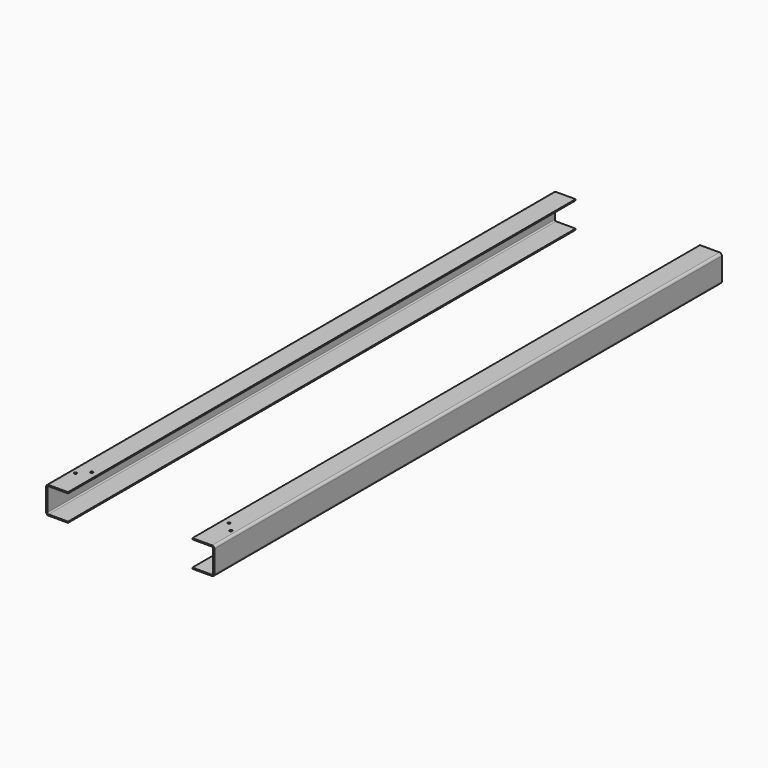
from build123d import *

# Parameters (mm, degrees)
F1_DEPTH = 2168
F4_DEPTH = 4


with BuildPart() as f1:
    # F0 (on Front) → F1 (new body)
    with BuildSketch(Plane.XZ):
        with BuildLine():
            Line((-37.5, -42.25), (-37.5, -46.25))
            Line((-37.5, -46.25), (29.5, -46.25))
            ThreePointArc((29.5, -46.25), (35.1568542495, -43.9068542495), (37.5, -38.25))
            Line((37.5, -38.25), (37.5, 38.25))
            ThreePointArc((37.5, 38.25), (35.1568542495, 43.9068542495), (29.5, 46.25))
            Line((29.5, 46.25), (-37.5, 46.25))
            Line((-37.5, 46.25), (-37.5, 42.25))
            Line((-37.5, 42.25), (29.5, 42.25))
            ThreePointArc((29.5, 42.25), (32.3284271247, 41.0784271247), (33.5, 38.25))
            Line((33.5, 38.25), (33.5, -38.25))
            ThreePointArc((33.5, -38.25), (32.3284271247, -41.0784271247), (29.5, -42.25))
            Line((29.5, -42.25), (-37.5, -42.25))
        make_face()
    extrude(amount=-F1_DEPTH)

    # F3 (on offset) → F4 (cut, through all)
    with BuildSketch(Plane.XY.offset(46.25)):
        with BuildLine():
            Line((-15.5, 129), (-11, 129))
            ThreePointArc((-11, 129), (-18.6819805153, 132.1819805153), (-15.5, 124.5))
            Line((-15.5, 124.5), (-15.5, 129))
        make_face()
        with BuildLine():
            ThreePointArc((-15.5, 124.5), (-12.3180194847, 125.8180194847), (-11, 129))
            Line((-11, 129), (-15.5, 129))
            Line((-15.5, 129), (-15.5, 124.5))
        make_face()
        with BuildLine():
            ThreePointArc((15.5, 102.5), (12.3180194847, 101.1819805153), (11, 98))
            Line((11, 98), (15.5, 98))
            Line((15.5, 98), (15.5, 102.5))
        make_face()
        with BuildLine():
            Line((15.5, 98), (11, 98))
            ThreePointArc((11, 98), (15.5, 93.5), (20, 98))
            ThreePointArc((20, 98), (18.6819805153, 101.1819805153), (15.5, 102.5))
            Line((15.5, 102.5), (15.5, 98))
        make_face()
    extrude(amount=-F4_DEPTH, mode=Mode.SUBTRACT)


with BuildPart() as f6_1:
    # F6: instance of F1
    add(f1.part.mirror(Plane.YZ.offset(-250)))


solid = Compound([f1.part, f6_1.part])
